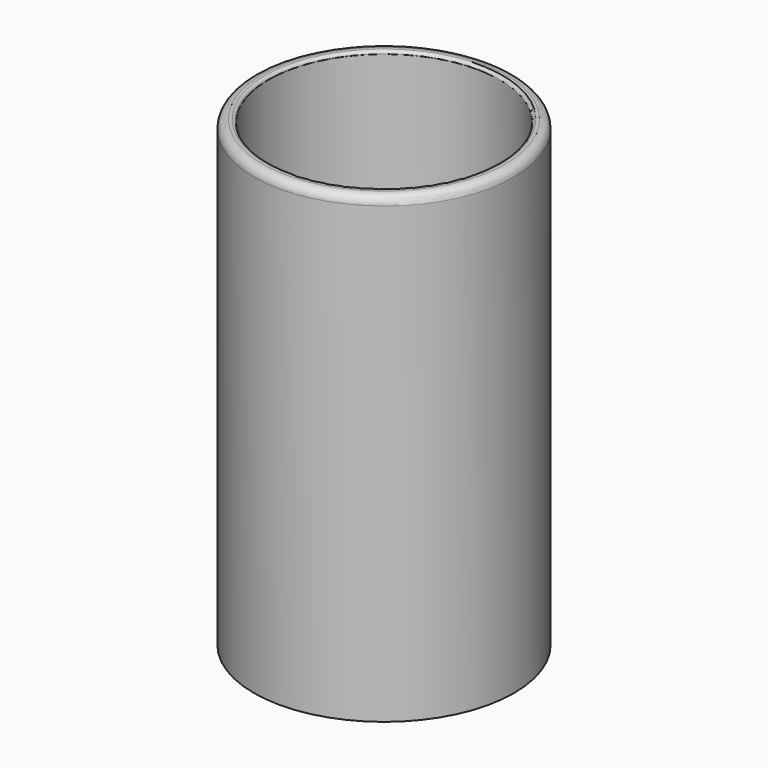
from build123d import *

# Parameters (mm, degrees)
SKETCH_R     = 45
PAD_DEPTH    = 160
FILLET_R     = 3
SKETCH001_R  = 40
POCKET_DEPTH = 150
FILLET001_R  = 1


with BuildPart() as part:
    # Sketch → Pad (new body)
    with BuildSketch(Plane.XY):
        Circle(SKETCH_R)
    extrude(amount=PAD_DEPTH)

    # Fillet
    fillet_edges = [part.edges().sort_by_distance(p)[0] for p in [
        (-45, 0, 160),
    ]]
    fillet(fillet_edges, radius=FILLET_R)

    # Sketch001 (on Face4 of Fillet) → Pocket (cut)
    with BuildSketch(Plane.XY.offset(160)):
        Circle(SKETCH001_R)
    extrude(amount=-POCKET_DEPTH, mode=Mode.SUBTRACT)

    # Fillet001
    fillet001_edges = [part.edges().sort_by_distance(p)[0] for p in [
        (-40, 0, 160),
    ]]
    fillet(fillet001_edges, radius=FILLET001_R)


solid = part.part
